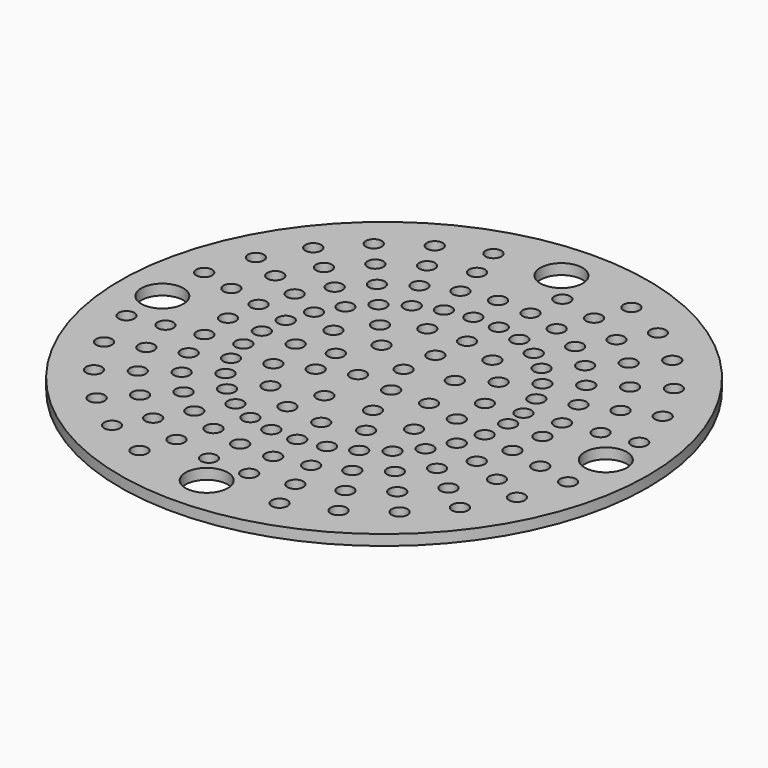
from build123d import *

# Parameters (mm, degrees)
F0_R     = 50
F0_R_2   = 1.5
F0_R_3   = 4
F1_DEPTH = 2


with BuildPart() as f1:
    # F0 (on Top) → F1 (new body)
    with BuildSketch(Plane.XY):
        Circle(F0_R)
        with Locations((-29.193183, -31.571476)):
            Circle(F0_R_2, mode=Mode.SUBTRACT)
        with Locations((-13.729966, -40.749086)):
            Circle(F0_R_2, mode=Mode.SUBTRACT)
        with Locations((-21.946669, -36.977611)):
            Circle(F0_R_2, mode=Mode.SUBTRACT)
        with Locations((-18.62915, -31.387972)):
            Circle(F0_R_2, mode=Mode.SUBTRACT)
        with Locations((-24.78026, -26.799043)):
            Circle(F0_R_2, mode=Mode.SUBTRACT)
        with Locations((-15.31163, -25.798333)):
            Circle(F0_R_2, mode=Mode.SUBTRACT)
        with Locations((-11.654506, -34.589341)):
            Circle(F0_R_2, mode=Mode.SUBTRACT)
        with Locations((-4.164654, -36.261628)):
            Circle(F0_R_2, mode=Mode.SUBTRACT)
        with Locations((-9.579046, -28.429595)):
            Circle(F0_R_2, mode=Mode.SUBTRACT)
        with Locations((-3.423004, -29.804078)):
            Circle(F0_R_2, mode=Mode.SUBTRACT)
        with Locations((-39.551309, -16.872876)):
            Circle(F0_R_2, mode=Mode.SUBTRACT)
        with Locations((-35.149161, -24.769669)):
            Circle(F0_R_2, mode=Mode.SUBTRACT)
        with Locations((-29.835915, -21.025417)):
            Circle(F0_R_2, mode=Mode.SUBTRACT)
        with Locations((-33.572623, -14.322325)):
            Circle(F0_R_2, mode=Mode.SUBTRACT)
        with Locations((-42.205023, -8.230189)):
            Circle(F0_R_2, mode=Mode.SUBTRACT)
        with Locations((-35.825194, -6.986091)):
            Circle(F0_R_2, mode=Mode.SUBTRACT)
        with Locations((-27.593936, -11.771774)):
            Circle(F0_R_2, mode=Mode.SUBTRACT)
        with Locations((-29.445365, -5.741992)):
            Circle(F0_R_2, mode=Mode.SUBTRACT)
        with Locations((-20.367337, -22.026611)):
            Circle(F0_R_2, mode=Mode.SUBTRACT)
        with Locations((-24.52267, -17.281165)):
            Circle(F0_R_2, mode=Mode.SUBTRACT)
        with Locations((-19.209425, -13.536912)):
            Circle(F0_R_2, mode=Mode.SUBTRACT)
        with Locations((-15.954414, -17.254179)):
            Circle(F0_R_2, mode=Mode.SUBTRACT)
        with Locations((-7.503586, -22.26985)):
            Circle(F0_R_2, mode=Mode.SUBTRACT)
        with Locations((-11.99411, -20.208694)):
            Circle(F0_R_2, mode=Mode.SUBTRACT)
        with Locations((-2.681353, -23.346528)):
            Circle(F0_R_2, mode=Mode.SUBTRACT)
        with Locations((-5.428126, -16.110104)):
            Circle(F0_R_2, mode=Mode.SUBTRACT)
        with Locations((-21.61525, -9.221223)):
            Circle(F0_R_2, mode=Mode.SUBTRACT)
        with Locations((-15.636564, -6.670672)):
            Circle(F0_R_2, mode=Mode.SUBTRACT)
        with Locations((-23.065536, -4.497894)):
            Circle(F0_R_2, mode=Mode.SUBTRACT)
        with Locations((-11.541491, -12.481746)):
            Circle(F0_R_2, mode=Mode.SUBTRACT)
        with Locations((-3.352666, -9.950358)):
            Circle(F0_R_2, mode=Mode.SUBTRACT)
        with Locations((-9.657878, -4.120121)):
            Circle(F0_R_2, mode=Mode.SUBTRACT)
        with Locations((-3.679192, -1.56957)):
            Circle(F0_R_2, mode=Mode.SUBTRACT)
        with Locations((0, -42)):
            Circle(F0_R_3, mode=Mode.SUBTRACT)
        with Locations((12.992038, -40.990328)):
            Circle(F0_R_2, mode=Mode.SUBTRACT)
        with Locations((3.509303, -36.330907)):
            Circle(F0_R_2, mode=Mode.SUBTRACT)
        with Locations((11.028125, -34.794115)):
            Circle(F0_R_2, mode=Mode.SUBTRACT)
        with Locations((2.884358, -29.861019)):
            Circle(F0_R_2, mode=Mode.SUBTRACT)
        with Locations((9.064212, -28.597903)):
            Circle(F0_R_2, mode=Mode.SUBTRACT)
        with Locations((18.05943, -31.719189)):
            Circle(F0_R_2, mode=Mode.SUBTRACT)
        with Locations((21.275493, -37.367812)):
            Circle(F0_R_2, mode=Mode.SUBTRACT)
        with Locations((14.843367, -26.070567)):
            Circle(F0_R_2, mode=Mode.SUBTRACT)
        with Locations((24.292387, -27.242062)):
            Circle(F0_R_2, mode=Mode.SUBTRACT)
        with Locations((28.618428, -32.093388)):
            Circle(F0_R_2, mode=Mode.SUBTRACT)
        with Locations((34.696236, -25.40022)):
            Circle(F0_R_2, mode=Mode.SUBTRACT)
        with Locations((2.259414, -23.391132)):
            Circle(F0_R_2, mode=Mode.SUBTRACT)
        with Locations((7.1003, -22.401691)):
            Circle(F0_R_2, mode=Mode.SUBTRACT)
        with Locations((11.627304, -20.421944)):
            Circle(F0_R_2, mode=Mode.SUBTRACT)
        with Locations((1.63447, -16.921244)):
            Circle(F0_R_2, mode=Mode.SUBTRACT)
        with Locations((8.411241, -14.773321)):
            Circle(F0_R_2, mode=Mode.SUBTRACT)
        with Locations((19.966345, -22.390736)):
            Circle(F0_R_2, mode=Mode.SUBTRACT)
        with Locations((15.640304, -17.53941)):
            Circle(F0_R_2, mode=Mode.SUBTRACT)
        with Locations((24.206676, -17.721084)):
            Circle(F0_R_2, mode=Mode.SUBTRACT)
        with Locations((18.961897, -13.881516)):
            Circle(F0_R_2, mode=Mode.SUBTRACT)
        with Locations((5.195179, -9.124698)):
            Circle(F0_R_2, mode=Mode.SUBTRACT)
        with Locations((3.227557, -2.362811)):
            Circle(F0_R_2, mode=Mode.SUBTRACT)
        with Locations((10.267915, -2.195434)):
            Circle(F0_R_2, mode=Mode.SUBTRACT)
        with Locations((13.717117, -10.041948)):
            Circle(F0_R_2, mode=Mode.SUBTRACT)
        with Locations((21.445246, -9.609965)):
            Circle(F0_R_2, mode=Mode.SUBTRACT)
        with Locations((16.624243, -3.554512)):
            Circle(F0_R_2, mode=Mode.SUBTRACT)
        with Locations((22.980571, -4.913589)):
            Circle(F0_R_2, mode=Mode.SUBTRACT)
        with Locations((29.451456, -21.560652)):
            Circle(F0_R_2, mode=Mode.SUBTRACT)
        with Locations((33.308573, -14.926116)):
            Circle(F0_R_2, mode=Mode.SUBTRACT)
        with Locations((39.240237, -17.584192)):
            Circle(F0_R_2, mode=Mode.SUBTRACT)
        with Locations((27.37691, -12.268041)):
            Circle(F0_R_2, mode=Mode.SUBTRACT)
        with Locations((29.336899, -6.272667)):
            Circle(F0_R_2, mode=Mode.SUBTRACT)
        with Locations((35.693227, -7.631745)):
            Circle(F0_R_2, mode=Mode.SUBTRACT)
        with Locations((42.049555, -8.990823)):
            Circle(F0_R_2, mode=Mode.SUBTRACT)
        with Locations((-42, 0)):
            Circle(F0_R_3, mode=Mode.SUBTRACT)
        with Locations((-41.88038, 9.748527)):
            Circle(F0_R_2, mode=Mode.SUBTRACT)
        with Locations((-29.99511, 0.541624)):
            Circle(F0_R_2, mode=Mode.SUBTRACT)
        with Locations((-35.549625, 8.274912)):
            Circle(F0_R_2, mode=Mode.SUBTRACT)
        with Locations((-29.21887, 6.801298)):
            Circle(F0_R_2, mode=Mode.SUBTRACT)
        with Locations((-38.916374, 18.289775)):
            Circle(F0_R_2, mode=Mode.SUBTRACT)
        with Locations((-33.033666, 15.525041)):
            Circle(F0_R_2, mode=Mode.SUBTRACT)
        with Locations((-27.150958, 12.760308)):
            Circle(F0_R_2, mode=Mode.SUBTRACT)
        with Locations((-29.057397, 22.088859)):
            Circle(F0_R_2, mode=Mode.SUBTRACT)
        with Locations((-23.49617, 0.424273)):
            Circle(F0_R_2, mode=Mode.SUBTRACT)
        with Locations((-22.888115, 5.327683)):
            Circle(F0_R_2, mode=Mode.SUBTRACT)
        with Locations((-16.997229, 0.306921)):
            Circle(F0_R_2, mode=Mode.SUBTRACT)
        with Locations((-21.268251, 9.995574)):
            Circle(F0_R_2, mode=Mode.SUBTRACT)
        with Locations((-15.385543, 7.230841)):
            Circle(F0_R_2, mode=Mode.SUBTRACT)
        with Locations((-10.498289, 1.689569)):
            Circle(F0_R_2, mode=Mode.SUBTRACT)
        with Locations((-6.845596, 7.961647)):
            Circle(F0_R_2, mode=Mode.SUBTRACT)
        with Locations((-23.882792, 18.155226)):
            Circle(F0_R_2, mode=Mode.SUBTRACT)
        with Locations((-18.708187, 14.221594)):
            Circle(F0_R_2, mode=Mode.SUBTRACT)
        with Locations((-15.321096, 17.818923)):
            Circle(F0_R_2, mode=Mode.SUBTRACT)
        with Locations((-19.558845, 22.747562)):
            Circle(F0_R_2, mode=Mode.SUBTRACT)
        with Locations((-11.083346, 12.890285)):
            Circle(F0_R_2, mode=Mode.SUBTRACT)
        with Locations((-4.842974, 16.29557)):
            Circle(F0_R_2, mode=Mode.SUBTRACT)
        with Locations((-11.256708, 20.628536)):
            Circle(F0_R_2, mode=Mode.SUBTRACT)
        with Locations((-6.694699, 22.526229)):
            Circle(F0_R_2, mode=Mode.SUBTRACT)
        with Locations((-1.836739, 23.428111)):
            Circle(F0_R_2, mode=Mode.SUBTRACT)
        with Locations((-34.232002, 26.022491)):
            Circle(F0_R_2, mode=Mode.SUBTRACT)
        with Locations((-28.034345, 32.604839)):
            Circle(F0_R_2, mode=Mode.SUBTRACT)
        with Locations((-23.796595, 27.6762)):
            Circle(F0_R_2, mode=Mode.SUBTRACT)
        with Locations((-14.370266, 26.334302)):
            Circle(F0_R_2, mode=Mode.SUBTRACT)
        with Locations((-17.483824, 32.040067)):
            Circle(F0_R_2, mode=Mode.SUBTRACT)
        with Locations((-8.546424, 28.756888)):
            Circle(F0_R_2, mode=Mode.SUBTRACT)
        with Locations((-2.344773, 29.908227)):
            Circle(F0_R_2, mode=Mode.SUBTRACT)
        with Locations((-10.39815, 34.987548)):
            Circle(F0_R_2, mode=Mode.SUBTRACT)
        with Locations((-20.597381, 37.745833)):
            Circle(F0_R_2, mode=Mode.SUBTRACT)
        with Locations((-12.249875, 41.218207)):
            Circle(F0_R_2, mode=Mode.SUBTRACT)
        with Locations((0.528071, 3.964989)):
            Circle(F0_R_2, mode=Mode.SUBTRACT)
        with Locations((8.690734, 5.892464)):
            Circle(F0_R_2, mode=Mode.SUBTRACT)
        with Locations((1.386187, 10.408097)):
            Circle(F0_R_2, mode=Mode.SUBTRACT)
        with Locations((16.741732, 2.952019)):
            Circle(F0_R_2, mode=Mode.SUBTRACT)
        with Locations((23.5, 0)):
            Circle(F0_R_2, mode=Mode.SUBTRACT)
        with Locations((23.142982, 4.080732)):
            Circle(F0_R_2, mode=Mode.SUBTRACT)
        with Locations((14.070713, 9.54018)):
            Circle(F0_R_2, mode=Mode.SUBTRACT)
        with Locations((21.778209, 8.829475)):
            Circle(F0_R_2, mode=Mode.SUBTRACT)
        with Locations((2.244302, 16.851205)):
            Circle(F0_R_2, mode=Mode.SUBTRACT)
        with Locations((8.939111, 14.460024)):
            Circle(F0_R_2, mode=Mode.SUBTRACT)
        with Locations((3.102418, 23.294313)):
            Circle(F0_R_2, mode=Mode.SUBTRACT)
        with Locations((12.357006, 19.988857)):
            Circle(F0_R_2, mode=Mode.SUBTRACT)
        with Locations((7.904426, 22.130749)):
            Circle(F0_R_2, mode=Mode.SUBTRACT)
        with Locations((16.263323, 16.963323)):
            Circle(F0_R_2, mode=Mode.SUBTRACT)
        with Locations((19.450691, 13.187896)):
            Circle(F0_R_2, mode=Mode.SUBTRACT)
        with Locations((24.83067, 16.835612)):
            Circle(F0_R_2, mode=Mode.SUBTRACT)
        with Locations((20.761689, 21.655306)):
            Circle(F0_R_2, mode=Mode.SUBTRACT)
        with Locations((30, 0)):
            Circle(F0_R_2, mode=Mode.SUBTRACT)
        with Locations((29.544233, 5.209445)):
            Circle(F0_R_2, mode=Mode.SUBTRACT)
        with Locations((27.801968, 11.271671)):
            Circle(F0_R_2, mode=Mode.SUBTRACT)
        with Locations((35.945483, 6.338158)):
            Circle(F0_R_2, mode=Mode.SUBTRACT)
        with Locations((42, 0)):
            Circle(F0_R_3, mode=Mode.SUBTRACT)
        with Locations((42.346733, 7.466872)):
            Circle(F0_R_2, mode=Mode.SUBTRACT)
        with Locations((33.825728, 13.713866)):
            Circle(F0_R_2, mode=Mode.SUBTRACT)
        with Locations((30.210648, 20.483328)):
            Circle(F0_R_2, mode=Mode.SUBTRACT)
        with Locations((35.590627, 24.131044)):
            Circle(F0_R_2, mode=Mode.SUBTRACT)
        with Locations((39.849488, 16.156061)):
            Circle(F0_R_2, mode=Mode.SUBTRACT)
        with Locations((3.960533, 29.737421)):
            Circle(F0_R_2, mode=Mode.SUBTRACT)
        with Locations((10.090757, 28.25202)):
            Circle(F0_R_2, mode=Mode.SUBTRACT)
        with Locations((4.818648, 36.180528)):
            Circle(F0_R_2, mode=Mode.SUBTRACT)
        with Locations((12.277087, 34.373291)):
            Circle(F0_R_2, mode=Mode.SUBTRACT)
        with Locations((15.774901, 25.51769)):
            Circle(F0_R_2, mode=Mode.SUBTRACT)
        with Locations((19.192796, 31.046523)):
            Circle(F0_R_2, mode=Mode.SUBTRACT)
        with Locations((22.610692, 36.575355)):
            Circle(F0_R_2, mode=Mode.SUBTRACT)
        with Locations((0, 42)):
            Circle(F0_R_3, mode=Mode.SUBTRACT)
        with Locations((14.463418, 40.494562)):
            Circle(F0_R_2, mode=Mode.SUBTRACT)
        with Locations((25.260055, 26.347289)):
            Circle(F0_R_2, mode=Mode.SUBTRACT)
        with Locations((29.758421, 31.039272)):
            Circle(F0_R_2, mode=Mode.SUBTRACT)
    extrude(amount=F1_DEPTH)


solid = f1.part
